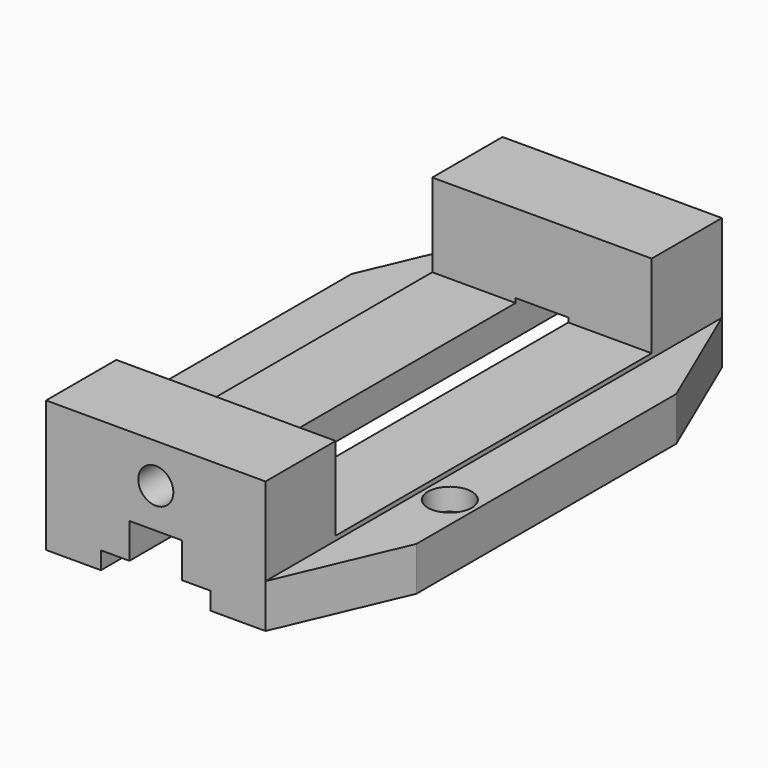
from build123d import *

# Parameters (mm, degrees)
F1_DEPTH  = 30
F2_W      = 12
F2_H      = 130
F3_DEPTH  = 20
F4_W      = 50
F4_H      = 90
F5_DEPTH  = 19
F7_DEPTH  = 130.001
F8_R      = 4
F9_DEPTH  = 20
F10_R     = 5
F11_DEPTH = 5


with BuildPart() as f1:
    # F0 (on Top) → F1 (new body)
    with BuildSketch(Plane.XY):
        Polygon((37, 37), (25, 65), (-25, 65), (-37, 37), (-37, -37), (-25, -65), (25, -65), (37, -37), align=None)
    extrude(amount=F1_DEPTH)

    # F2 (on face) → F3 (cut)
    with BuildSketch(Plane.XY.offset(30)):
        with Locations((31, 0)):
            Rectangle(F2_W, F2_H)
        with Locations((-31, 0)):
            Rectangle(F2_W, F2_H)
    extrude(amount=-F3_DEPTH, mode=Mode.SUBTRACT)

    # F4 (on face) → F5 (cut)
    with BuildSketch(Plane.XY.offset(30)):
        Rectangle(F4_W, F4_H)
    extrude(amount=-F5_DEPTH, mode=Mode.SUBTRACT)

    # F6 (on face) → F7 (cut, through all)
    with BuildSketch(Plane.XZ.offset(65)):
        Polygon((-12.5, 4), (-12.5, 0), (12.5, 0), (12.5, 4), (6, 4), (6, 12), (-6, 12), (-6, 4), align=None)
    extrude(amount=-F7_DEPTH, mode=Mode.SUBTRACT)

    # F8 (on face) → F9 (cut, through all)
    with BuildSketch(Plane.XZ.offset(65)):
        with Locations((0, 21)):
            Circle(F8_R)
    extrude(amount=-F9_DEPTH, mode=Mode.SUBTRACT)

    # F10 (on face) → F11 (cut)
    with BuildSketch(Plane.XY.offset(10)):
        with Locations((31, -20)):
            Circle(F10_R)
    extrude(amount=-F11_DEPTH, mode=Mode.SUBTRACT)


solid = f1.part
